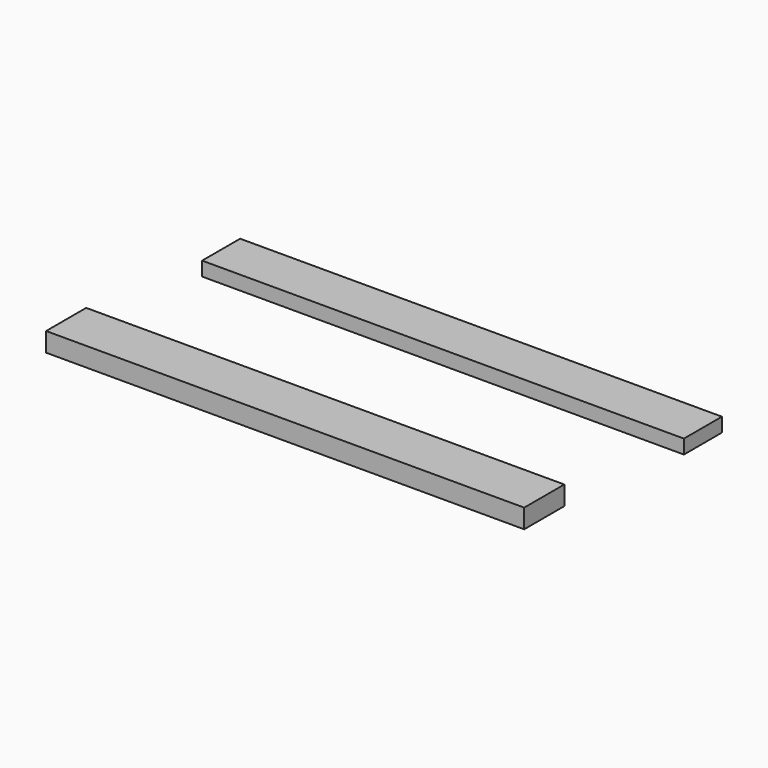
from build123d import *

# Parameters (mm, degrees)
F0_W     = 178.2217472792
F0_H     = 17.8985670209
F1_DEPTH = 200
F2_DEPTH = 50
F3_DEPTH = 1500
F4_W     = 1713.0418419838
F4_H     = 168.9335107803
F5_DEPTH = 50


with BuildPart() as f1:
    # F0 (on Right) → F1 (new body)
    with BuildSketch(Plane.YZ):
        with Locations((0.1606494188, -47.9213707149)):
            Rectangle(F0_W, F0_H)
    extrude(amount=F1_DEPTH)

    # F2 (add): a face of the model
    f2_faces = [f1.faces().sort_by_distance(p)[0] for p in [
        (100, 0.1606494188, -56.8706542253),
    ]]
    extrude(f2_faces, amount=F2_DEPTH)

    # F3 (add): a face of the model
    f3_faces = [f1.faces().sort_by_distance(p)[0] for p in [
        (0, 0.1606494188, -72.9213707149),
    ]]
    extrude(f3_faces, amount=F3_DEPTH)


with BuildPart() as f5:
    # F4 (on face) → F5 (new body)
    with BuildSketch(Plane(origin=(0, 0, -106.8706542253), x_dir=(1, 0, 0), z_dir=(0, 0, -1))):
        with Locations((-651.0364711285, -698.5028386116)):
            Rectangle(F4_W, F4_H)
    extrude(amount=F5_DEPTH)


solid = Compound([f1.part, f5.part])
